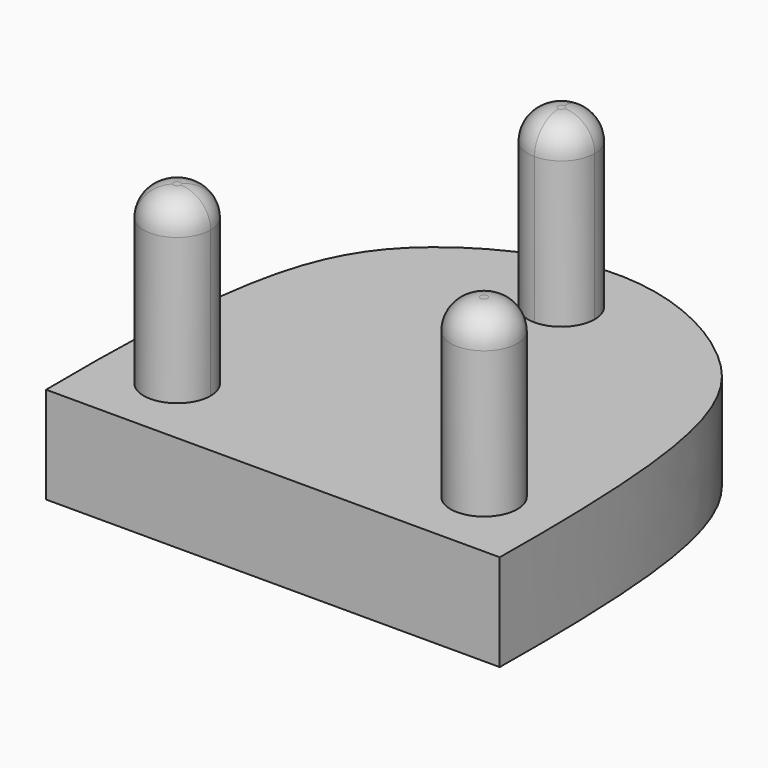
from build123d import *

# Parameters (mm, degrees)
F1_DEPTH = 5.5
F2_DEPTH = 15.5
F3_R     = 1.7


with BuildPart() as f1:
    # F0 (on Top) → F1 (new body)
    with BuildSketch(Plane.XY):
        with BuildLine():
            add(Edge.make_bspline(
                [(-29.498119845, 0), (-29.6541738862, 14.1305088281), (-27.4827572547, 20.9253169468), (-19.6571877436, 24.5), (-16.598119845, 24.5)],
                knots=[0, 0, 0, 0, 0.3045466279, 0.5, 0.5, 0.5, 0.5], degree=3))
            Line((-29.498119845, 0), (-26.7035992752, 2.7945205698))
            ThreePointArc((-26.7035992752, 2.7945205698), (-26.6666227292, 5.4435028843), (-24.0176404147, 5.4804794302))
            Line((-24.0176404147, 5.4804794302), (-16.598119845, 12.9))
            Line((-16.598119845, 12.9), (-16.598119845, 18.6))
            ThreePointArc((-16.598119845, 18.6), (-18.498119845, 20.5), (-16.598119845, 22.4))
            Line((-16.598119845, 22.4), (-16.598119845, 24.5))
        make_face()
        with BuildLine():
            add(Edge.make_bspline(
                [(-16.598119845, 24.5), (-13.5390519463, 24.5), (-10.4799840477, 23.1026322863), (-8.2849164094, 21.2132034356)],
                knots=[0.5, 0.5, 0.5, 0.5, 0.6954533721, 0.6954533721, 0.6954533721, 0.6954533721], degree=3))
            Line((-16.598119845, 24.5), (-16.598119845, 22.4))
            ThreePointArc((-16.598119845, 22.4), (-15.2546169607, 21.8435028843), (-14.698119845, 20.5))
            ThreePointArc((-14.698119845, 20.5), (-15.2546169607, 19.1564971157), (-16.598119845, 18.6))
            Line((-16.598119845, 18.6), (-16.598119845, 12.9))
            Line((-16.598119845, 12.9), (-8.2849164094, 21.2132034356))
        make_face()
        with BuildLine():
            ThreePointArc((-14.698119845, 20.5), (-15.2546169607, 21.8435028843), (-16.598119845, 22.4))
            Line((-16.598119845, 22.4), (-16.598119845, 20.5))
            Line((-16.598119845, 20.5), (-16.598119845, 18.6))
            ThreePointArc((-16.598119845, 18.6), (-15.2546169607, 19.1564971157), (-14.698119845, 20.5))
        make_face()
        with BuildLine():
            Line((-16.598119845, 20.5), (-16.598119845, 22.4))
            ThreePointArc((-16.598119845, 22.4), (-18.498119845, 20.5), (-16.598119845, 18.6))
            Line((-16.598119845, 18.6), (-16.598119845, 20.5))
        make_face()
        with BuildLine():
            Line((-16.598119845, 4.1), (-16.598119845, 0))
            Line((-16.598119845, 0), (-3.698119845, 0))
            add(Edge.make_bspline(
                [(-8.2849164094, 21.2132034356), (-4.8646610296, 18.269180628), (-3.5420658037, 14.1305088281), (-3.698119845, 0)],
                knots=[0.6954533721, 0.6954533721, 0.6954533721, 0.6954533721, 1, 1, 1, 1], degree=3))
            Line((-8.2849164094, 21.2132034356), (-16.598119845, 12.9))
            Line((-16.598119845, 12.9), (-16.598119845, 4.1))
        make_face()
        with BuildLine():
            ThreePointArc((-5.973119845, 4.1), (-7.873119845, 2.2), (-9.773119845, 4.1))
            ThreePointArc((-9.773119845, 4.1), (-7.873119845, 6), (-5.973119845, 4.1))
        make_face(mode=Mode.SUBTRACT)
        with BuildLine():
            ThreePointArc((-5.973119845, 4.1), (-7.873119845, 6), (-9.773119845, 4.1))
            ThreePointArc((-9.773119845, 4.1), (-7.873119845, 2.2), (-5.973119845, 4.1))
        make_face()
        with BuildLine():
            Line((-23.423119845, 4.1), (-16.598119845, 4.1))
            Line((-16.598119845, 4.1), (-16.598119845, 12.9))
            Line((-16.598119845, 12.9), (-24.0176404147, 5.4804794302))
            ThreePointArc((-24.0176404147, 5.4804794302), (-23.5780681384, 4.8515281374), (-23.423119845, 4.1))
        make_face()
        with BuildLine():
            Line((-26.7035992752, 2.7945205698), (-29.498119845, 0))
            Line((-29.498119845, 0), (-16.598119845, 0))
            Line((-16.598119845, 0), (-16.598119845, 4.1))
            Line((-16.598119845, 4.1), (-23.423119845, 4.1))
            ThreePointArc((-23.423119845, 4.1), (-24.6205925919, 2.3346514625), (-26.7035992752, 2.7945205698))
        make_face()
        with BuildLine():
            Line((-24.0176404147, 5.4804794302), (-26.7035992752, 2.7945205698))
            ThreePointArc((-26.7035992752, 2.7945205698), (-24.6205925919, 2.3346514625), (-23.423119845, 4.1))
            ThreePointArc((-23.423119845, 4.1), (-23.5780681384, 4.8515281374), (-24.0176404147, 5.4804794302))
        make_face()
        with BuildLine():
            ThreePointArc((-24.0176404147, 5.4804794302), (-26.6666227292, 5.4435028843), (-26.7035992752, 2.7945205698))
            Line((-26.7035992752, 2.7945205698), (-24.0176404147, 5.4804794302))
        make_face()
    extrude(amount=F1_DEPTH)

    # F0 (on Top) → F2 (join)
    with BuildSketch(Plane.XY):
        with BuildLine():
            ThreePointArc((-24.0176404147, 5.4804794302), (-26.6666227292, 5.4435028843), (-26.7035992752, 2.7945205698))
            Line((-26.7035992752, 2.7945205698), (-24.0176404147, 5.4804794302))
        make_face()
        with BuildLine():
            Line((-24.0176404147, 5.4804794302), (-26.7035992752, 2.7945205698))
            ThreePointArc((-26.7035992752, 2.7945205698), (-24.6205925919, 2.3346514625), (-23.423119845, 4.1))
            ThreePointArc((-23.423119845, 4.1), (-23.5780681384, 4.8515281374), (-24.0176404147, 5.4804794302))
        make_face()
        with BuildLine():
            ThreePointArc((-14.698119845, 20.5), (-15.2546169607, 21.8435028843), (-16.598119845, 22.4))
            Line((-16.598119845, 22.4), (-16.598119845, 20.5))
            Line((-16.598119845, 20.5), (-16.598119845, 18.6))
            ThreePointArc((-16.598119845, 18.6), (-15.2546169607, 19.1564971157), (-14.698119845, 20.5))
        make_face()
        with BuildLine():
            Line((-16.598119845, 20.5), (-16.598119845, 22.4))
            ThreePointArc((-16.598119845, 22.4), (-18.498119845, 20.5), (-16.598119845, 18.6))
            Line((-16.598119845, 18.6), (-16.598119845, 20.5))
        make_face()
        with BuildLine():
            ThreePointArc((-5.973119845, 4.1), (-7.873119845, 6), (-9.773119845, 4.1))
            ThreePointArc((-9.773119845, 4.1), (-7.873119845, 2.2), (-5.973119845, 4.1))
        make_face()
    extrude(amount=F2_DEPTH)

    # F3
    f3_edges = [f1.edges().sort_by_distance(p)[0] for p in [
        (-16.59812, 18.6, 15.5),
        (-23.94264, 5.405479, 15.5),
        (-5.97312, 4.1, 15.5),
    ]]
    fillet(f3_edges, radius=F3_R)


solid = f1.part
